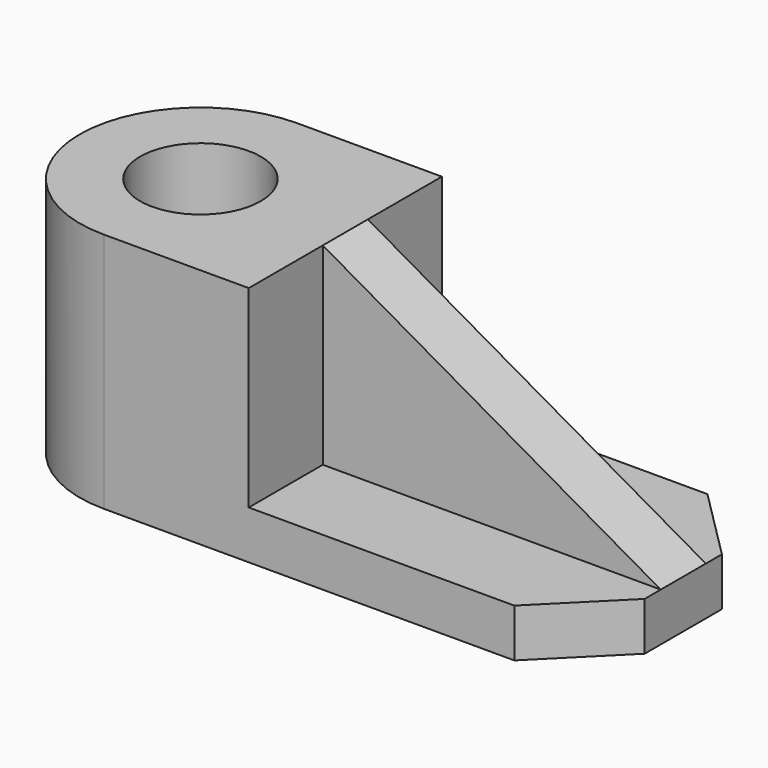
from build123d import *

# Parameters (mm, degrees)
F0_W     = 1524
F0_H     = 762
F1_DEPTH = 152.4
F2_W     = 457.2
F2_H     = 762
F3_DEPTH = 609.6
F5_DEPTH = 88.9
F6_R     = 190.5
F7_DEPTH = 1524
F9_DEPTH = 152.4


with BuildPart() as f1:
    # F0 (on Top) → F1 (new body)
    with BuildSketch(Plane.XY):
        Rectangle(F0_W, F0_H)
        with BuildLine():
            Line((-762, -381), (-762, 381))
            ThreePointArc((-762, 381), (-1143, 0), (-762, -381))
        make_face()
    extrude(amount=F1_DEPTH)

    # F2 (on face) → F3 (join)
    with BuildSketch(Plane.XY.offset(152.4)):
        with BuildLine():
            Line((-762, -381), (-762, 381))
            ThreePointArc((-762, 381), (-1143, 0), (-762, -381))
        make_face()
        with Locations((-533.4, 0)):
            Rectangle(F2_W, F2_H)
    extrude(amount=F3_DEPTH)

    # F4 (on Front) → F5 (join, symmetric)
    with BuildSketch(Plane.XZ):
        Polygon((762, 152.4), (-304.8, 762), (-304.8, 152.4), align=None)
    extrude(amount=F5_DEPTH, both=True)

    # F6 (on face) → F7 (cut)
    with BuildSketch(Plane.XY.offset(762)):
        with Locations((-762, 0)):
            Circle(F6_R)
    extrude(amount=-F7_DEPTH, mode=Mode.SUBTRACT)

    # F8 (on face) → F9 (cut)
    with BuildSketch(Plane.XY.offset(152.4)):
        Polygon((762, 381), (533.4, 381), (762, 152.4), align=None)
        Polygon((762, -381), (762, -152.4), (533.4, -381), align=None)
    extrude(amount=-F9_DEPTH, mode=Mode.SUBTRACT)


solid = f1.part
